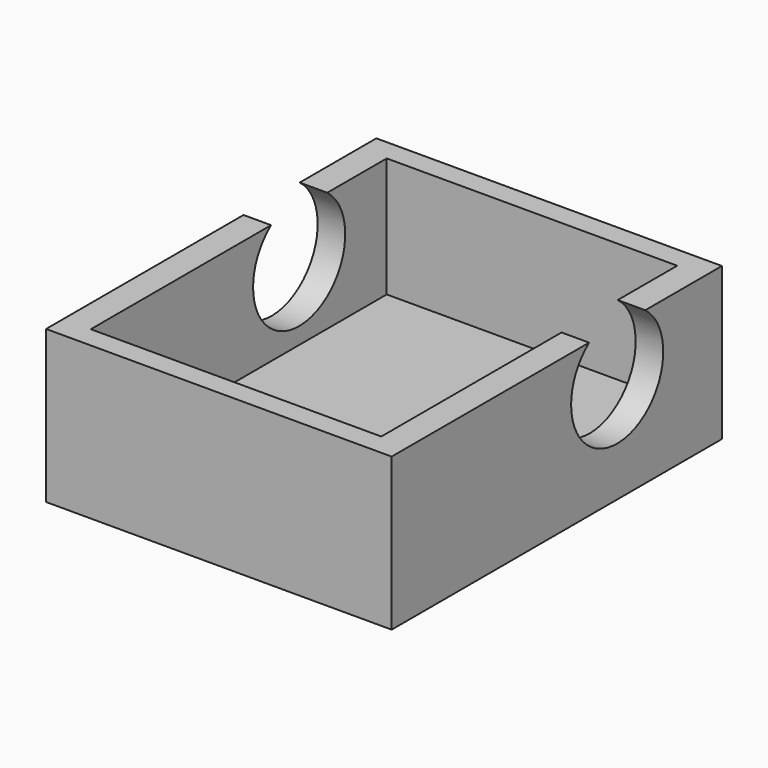
from build123d import *

# Parameters (mm, degrees)
F0_W     = 113.393486
F0_H     = 135.465204
F1_DEPTH = 50
F2_W     = 95.314652
F2_H     = 121.38363
F3_DEPTH = 39.3
F5_DEPTH = 200


with BuildPart() as f1:
    # F0 (on Top) → F1 (new body)
    with BuildSketch(Plane.XY):
        Rectangle(F0_W, F0_H)
    extrude(amount=F1_DEPTH)

    # F2 (on face) → F3 (cut)
    with BuildSketch(Plane.XY.offset(50)):
        Rectangle(F2_W, F2_H)
    extrude(amount=-F3_DEPTH, mode=Mode.SUBTRACT)

    # F4 (on face) → F5 (cut)
    with BuildSketch(Plane(origin=(-56.696743, 0, 0), x_dir=(0, -1, 0), z_dir=(-1, 0, 0))):
        with BuildLine():
            ThreePointArc((-36.292743, 50), (-33.109312, 18.08902), (-5.88302, 35.035226))
            ThreePointArc((-5.88302, 35.035226), (-7.823794, 43.374538), (-13.247259, 50))
            Line((-13.247259, 50), (-36.292743, 50))
        make_face()
    extrude(amount=-F5_DEPTH, mode=Mode.SUBTRACT)


solid = f1.part
